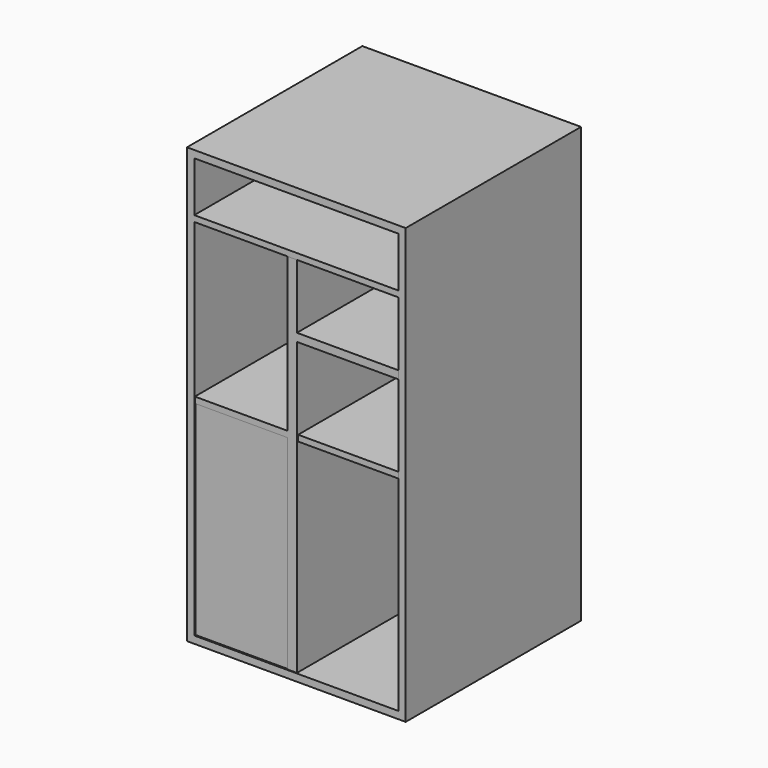
from build123d import *

# Parameters (mm, degrees)
F0_W      = 76.2886032462
F0_H      = 151.6468524933
F1_DEPTH  = 76.454
F2_T      = -2.54
F3_W      = 71.2086032462
F3_H      = 2.0932815969
F4_DEPTH  = 73.914
F5_W      = 3.2325349748
F5_H      = 127.0110753989
F6_DEPTH  = 73.66
F7_W      = 32.3717666483
F7_H      = 2.0932848565
F8_DEPTH  = 73.66
F10_W     = 35.353255691
F10_H     = 2.0932848565
F11_DEPTH = 73.66
F9_W      = 35.6043016231
F9_H      = 2.7910489589
F12_DEPTH = 73.66
F16_W     = 25.3520011902
F16_H     = 3.7214010954
F17_DEPTH = 49.784
F15_W     = 3.0236318707
F15_H     = 68.8458192162
F18_DEPTH = 50.292
F14_W     = 28.8408100605
F14_H     = 1.6281104181
F19_DEPTH = 50.546
F13_W     = 2.9977930403
F13_H     = 71.1901413901
F20_DEPTH = 50.292
F22_DEPTH = 47.498
F23_DEPTH = 73.406


with BuildPart() as f1:
    # F0 (on Front) → F1 (new body)
    with BuildSketch(Plane.XZ):
        with Locations((-38.1443016231, 0)):
            Rectangle(F0_W, F0_H)
    extrude(amount=-F1_DEPTH)

    # F2
    f2_openings = [f1.faces().sort_by_distance(p)[0] for p in [
        (-38.144302, 0, 0),
    ]]
    offset(amount=F2_T, openings=f2_openings)

    # F3 (on face) → F4 (join)
    with BuildSketch(Plane.XZ.offset(-73.914)):
        with Locations((-38.1443016231, 54.7742899507)):
            Rectangle(F3_W, F3_H)
    extrude(amount=F4_DEPTH)

    # F5 (on face) → F6 (join)
    with BuildSketch(Plane.XZ.offset(-73.914)):
        with Locations((-39.7605691105, -9.7778885472)):
            Rectangle(F5_W, F5_H)
    extrude(amount=F6_DEPTH)

    # F7 (on face) → F8 (join)
    with BuildSketch(Plane.XZ.offset(-73.914)):
        with Locations((-57.5627199221, -1.0466424283)):
            Rectangle(F7_W, F7_H)
    extrude(amount=F8_DEPTH)

    # F10 (on face) → F11 (join)
    with BuildSketch(Plane.XZ.offset(-73.914)):
        with Locations((-20.0468016556, -1.0466424283)):
            Rectangle(F10_W, F10_H)
    extrude(amount=F11_DEPTH)

    # F9 (on face) → F12 (join)
    with BuildSketch(Plane.XZ.offset(-73.914)):
        with Locations((-20.3421508116, 29.7711631283)):
            Rectangle(F9_W, F9_H)
    extrude(amount=F12_DEPTH)

    # F16 (on face) → F17 (join)
    with BuildSketch(Plane.XZ.offset(-73.914)):
        with Locations((-58.0748096108, -71.1716860533)):
            Rectangle(F16_W, F16_H)
    extrude(amount=-F17_DEPTH)

    # F15 (on face) → F18 (join)
    with BuildSketch(Plane.XZ.offset(-73.914)):
        with Locations((-43.4218160808, -38.3768922184)):
            Rectangle(F15_W, F15_H)
    extrude(amount=-F18_DEPTH)

    # F14 (on face) → F19 (join)
    with BuildSketch(Plane.XZ.offset(-73.914)):
        with Locations((-56.3304051757, -3.372514504)):
            Rectangle(F14_W, F14_H)
    extrude(amount=-F19_DEPTH)

    # F13 (on face) → F20 (join)
    with BuildSketch(Plane.XZ.offset(-73.914)):
        with Locations((-72.2497067261, -37.6883555516)):
            Rectangle(F13_W, F13_H)
    extrude(amount=-F20_DEPTH)

    # F21 (on face) → F22 (join)
    with BuildSketch(Plane(origin=(0, 76.454, 0), x_dir=(-1, 0, 0), z_dir=(0, 1, 0))):
        Polygon((70.7508102059, -4.1865697131), (44.9336320162, -4.1865697131), (44.9336320162, -69.3109855056), (45.3988090158, -69.3109855056), (70.7508102059, -69.3109855056), align=None)
    extrude(amount=F22_DEPTH)

    # F23 (add): a face of the model
    f23_faces = [f1.faces().sort_by_distance(p)[0] for p in [
        (-57.5627199221, 73.914, -37.6883555516),
    ]]
    extrude(f23_faces, amount=F23_DEPTH)


solid = f1.part
